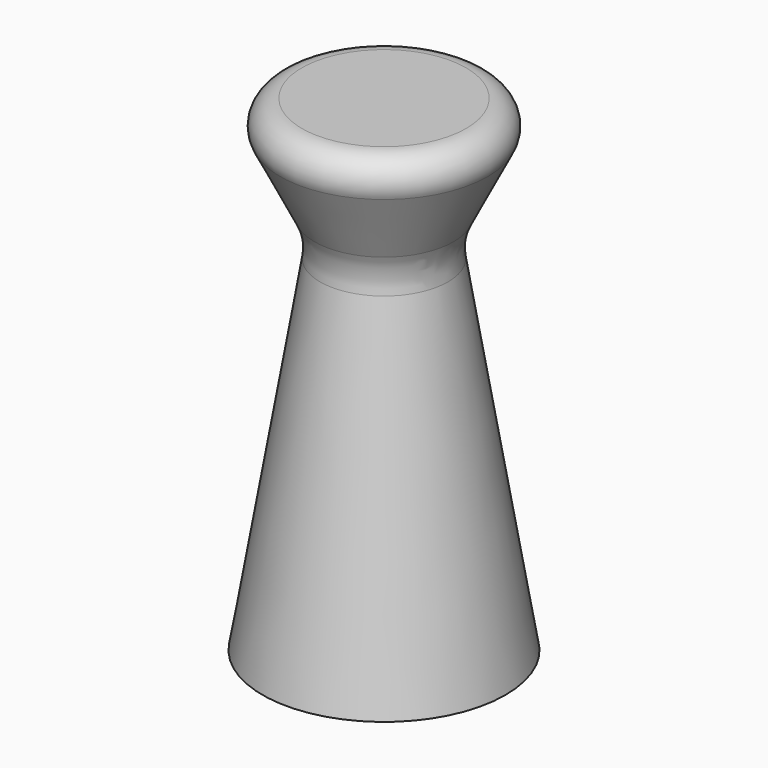
from build123d import *

# Parameters (mm, degrees)
F2_R     = 3.025775
F3_DEPTH = 11.43
F4_R     = 1.27
F5_R     = 3.175


with BuildPart() as f1:
    # F0 (on Front) → F1 (revolve)
    with BuildSketch(Plane.XZ):
        Polygon((0, 25.4), (0, 0), (6.35, 0), (3.175, 19.05), (6.35, 25.4), align=None)
    revolve(axis=Axis((0, 0, 12.7), (0, 0, 1)))

    # F2 (on face) → F3 (cut)
    with BuildSketch(Plane(origin=(0, 0, 0), x_dir=(1, 0, 0), z_dir=(0, 0, -1))):
        Circle(F2_R)
    extrude(amount=-F3_DEPTH, mode=Mode.SUBTRACT)

    # F4
    f4_edges = [f1.edges().sort_by_distance(p)[0] for p in [
        (-3.025775, 0, 0),
        (-6.35, 0, 25.4),
    ]]
    fillet(f4_edges, radius=F4_R)

    # F5
    f5_edges = [f1.edges().sort_by_distance(p)[0] for p in [
        (-3.175, 0, 19.05),
    ]]
    fillet(f5_edges, radius=F5_R)


with BuildPart() as f6_1:
    # F6: copy of F1
    add(f1.part)


solid = Compound([f1.part, f6_1.part])
